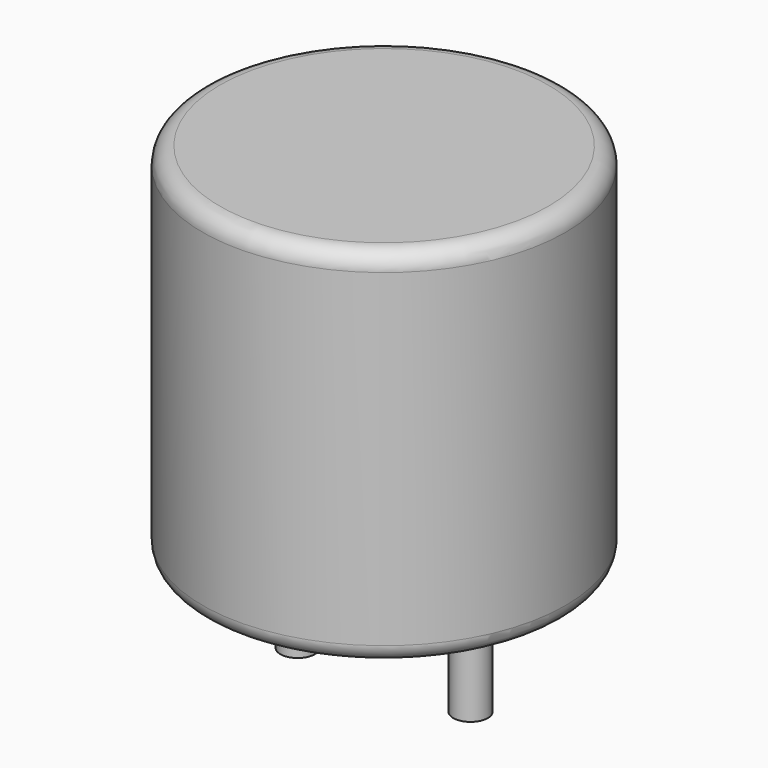
from build123d import *

# Parameters (mm, degrees)
SKETCH001_R       = 0.5
PAD001_DEPTH      = 5.25
PAD001_DEPTH_BACK = 3.5
SKETCH_R          = 5.25
PAD_DEPTH         = 10.5
FILLET_R          = 0.5


with BuildPart() as pad001:
    # Sketch001 → Pad001 (new body, two sides)
    with BuildSketch(Plane.XY.offset(0.5)) as pad001_sk:
        Circle(SKETCH001_R)
        with Locations((5, 0)):
            Circle(SKETCH001_R)
    extrude(amount=PAD001_DEPTH)
    extrude(pad001_sk.sketch, amount=-PAD001_DEPTH_BACK)


with BuildPart() as fillet_body:
    # Sketch → Pad (new body)
    with BuildSketch(Plane.XY.offset(0.1)):
        with Locations((2.5, 0)):
            Circle(SKETCH_R)
    extrude(amount=PAD_DEPTH)

    # Fillet
    fillet_edges = [fillet_body.edges().sort_by_distance(p)[0] for p in [
        (-2.75, 0, 0.1),
        (-2.75, 0, 10.6),
    ]]
    fillet(fillet_edges, radius=FILLET_R)


solid = Compound([pad001.part, fillet_body.part])
